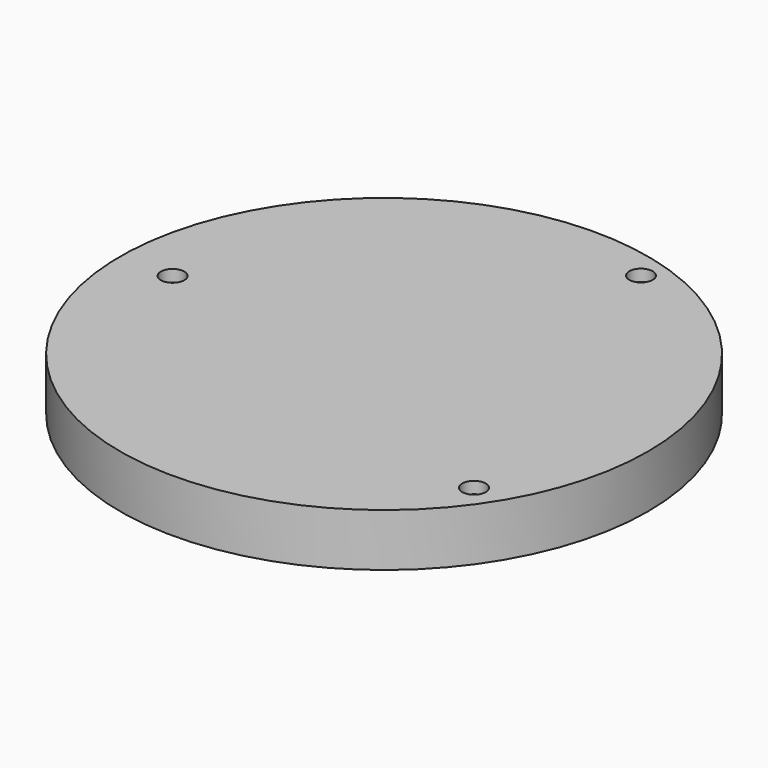
from build123d import *

# Parameters (mm, degrees)
F0_R     = 45
F0_R_2   = 2
F1_DEPTH = 9
F2_DEPTH = 2
F3_R     = 2
F4_DEPTH = 2


with BuildPart() as f1:
    # F0 (on Top) → F1 (new body)
    with BuildSketch(Plane.XY):
        Circle(F0_R)
        Circle(F0_R_2, mode=Mode.SUBTRACT)
        Circle(F0_R_2)
    extrude(amount=F1_DEPTH)

    # F0 (on Top) → F2 (cut)
    with BuildSketch(Plane.XY):
        Circle(F0_R_2)
    extrude(amount=F2_DEPTH, mode=Mode.SUBTRACT)

    # F3 (on face) → F4 (cut)
    with BuildSketch(Plane.XY.offset(9)):
        with Locations((-36.051724, 0)):
            Circle(F3_R)
        with Locations((12.580568, 39.022164)):
            Circle(F3_R)
        with Locations((33.445747, -22.644383)):
            Circle(F3_R)
    extrude(amount=-F4_DEPTH, mode=Mode.SUBTRACT)


solid = f1.part
